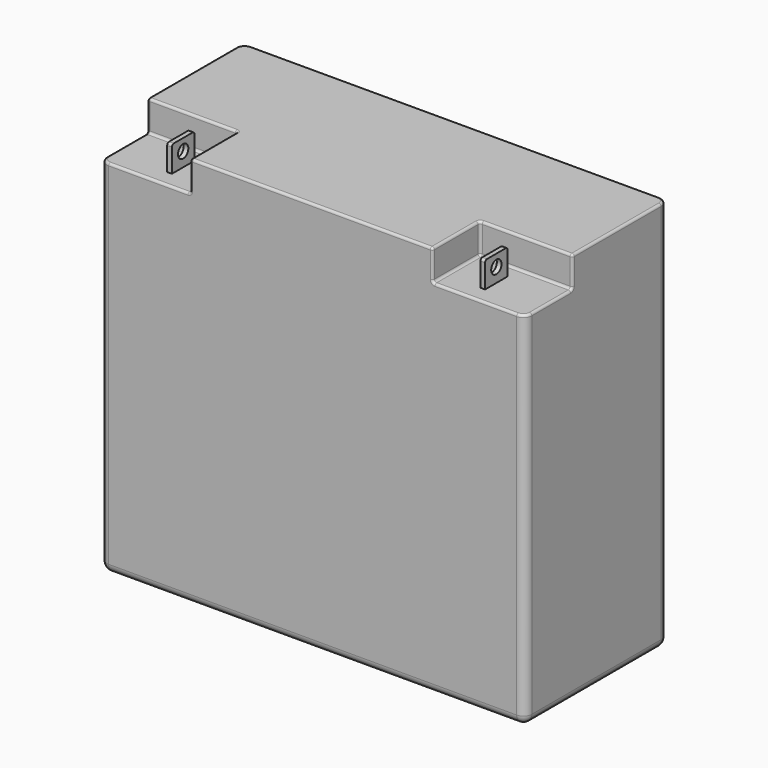
from build123d import *

# Parameters (mm, degrees)
F0_W      = 181
F0_H      = 76
F1_DEPTH  = 167
F2_W      = 25.2
F2_H      = 13
F3_DEPTH  = 39.4
F4_W      = 25.1968
F4_H      = 13.0048
F5_DEPTH  = 38.4
F6_W      = 2
F6_H      = 12
F7_DEPTH  = 11
F8_R      = 1
F9_R      = 2.75
F10_DEPTH = 3
F11_W     = 2
F11_H     = 11.9888
F12_DEPTH = 11
F13_R     = 1
F14_R     = 2.75
F15_DEPTH = 3
F16_R     = 3.6
F17_R     = 1


with BuildPart() as f1:
    # F0 (on Top) → F1 (new body)
    with BuildSketch(Plane.XY):
        with Locations((6.5742507577, -0.1865534149)):
            Rectangle(F0_W, F0_H)
    extrude(amount=F1_DEPTH)

    # F2 (on face) → F3 (cut)
    with BuildSketch(Plane.YZ.offset(97.0742507577)):
        with Locations((-25.5865534149, 160.5)):
            Rectangle(F2_W, F2_H)
    extrude(amount=-F3_DEPTH, mode=Mode.SUBTRACT)

    # F4 (on face) → F5 (cut)
    with BuildSketch(Plane(origin=(-83.9257492423, 0, 0), x_dir=(0, -1, 0), z_dir=(-1, 0, 0))):
        with Locations((25.5881534149, 160.4976)):
            Rectangle(F4_W, F4_H)
    extrude(amount=-F5_DEPTH, mode=Mode.SUBTRACT)

    # F6 (on face) → F7 (join)
    with BuildSketch(Plane.XY.offset(154)):
        with Locations((73.2742507577, -24.9865534149)):
            Rectangle(F6_W, F6_H)
    extrude(amount=F7_DEPTH)

    # F8
    f8_edges = [f1.edges().sort_by_distance(p)[0] for p in [
        (73.274251, -30.986553, 165),
        (73.274251, -18.986553, 165),
    ]]
    fillet(f8_edges, radius=F8_R)

    # F9 (on face) → F10 (cut)
    with BuildSketch(Plane.YZ.offset(74.2742507577)):
        with Locations((-24.9865534149, 160)):
            Circle(F9_R)
    extrude(amount=-F10_DEPTH, mode=Mode.SUBTRACT)

    # F11 (on face) → F12 (join)
    with BuildSketch(Plane.XY.offset(153.9952)):
        with Locations((-60.1165492423, -25.0039534149)):
            Rectangle(F11_W, F11_H)
    extrude(amount=F12_DEPTH)

    # F13
    f13_edges = [f1.edges().sort_by_distance(p)[0] for p in [
        (-60.116549, -30.998353, 164.9952),
        (-60.116549, -19.009553, 164.9952),
    ]]
    fillet(f13_edges, radius=F13_R)

    # F14 (on face) → F15 (cut)
    with BuildSketch(Plane(origin=(-61.1165492423, 0, 0), x_dir=(0, -1, 0), z_dir=(-1, 0, 0))):
        with Locations((25.0039534149, 159.9952)):
            Circle(F14_R)
    extrude(amount=-F15_DEPTH, mode=Mode.SUBTRACT)

    # F16
    f16_edges = [f1.edges().sort_by_distance(p)[0] for p in [
        (97.074251, -38.186553, 77),
        (97.074251, -0.186553, 0),
        (97.074251, 37.813447, 83.5),
        (6.574251, 37.813447, 0),
        (6.574251, -38.186553, 0),
        (-83.925749, 37.813447, 83.5),
        (-83.925749, -0.186553, 0),
        (-83.925749, -38.186553, 76.9976),
    ]]
    fillet(f16_edges, radius=F16_R)

    # F17
    f17_edges = [f1.edges().sort_by_distance(p)[0] for p in [
        (-62.925749, -38.186553, 153.9952),
        (-83.925749, -23.788153, 153.9952),
        (-83.925749, -12.989753, 160.4976),
        (-64.725749, -12.989753, 167),
        (-45.525749, -25.588153, 167),
        (-45.525749, -12.989753, 160.4976),
        (-45.525749, -25.588153, 153.9952),
        (-64.725749, -12.989753, 153.9952),
        (-45.525749, -38.186553, 160.4976),
        (6.074251, -38.186553, 167),
        (-83.925749, 10.611847, 167),
        (77.374251, -12.986553, 167),
        (57.674251, -25.586553, 167),
        (57.674251, -12.986553, 160.5),
        (77.374251, -12.986553, 154),
        (57.674251, -25.586553, 154),
        (57.674251, -38.186553, 160.5),
        (75.574251, -38.186553, 154),
        (97.074251, -12.986553, 160.5),
        (97.074251, -23.786553, 154),
    ]]
    fillet(f17_edges, radius=F17_R)


solid = f1.part
